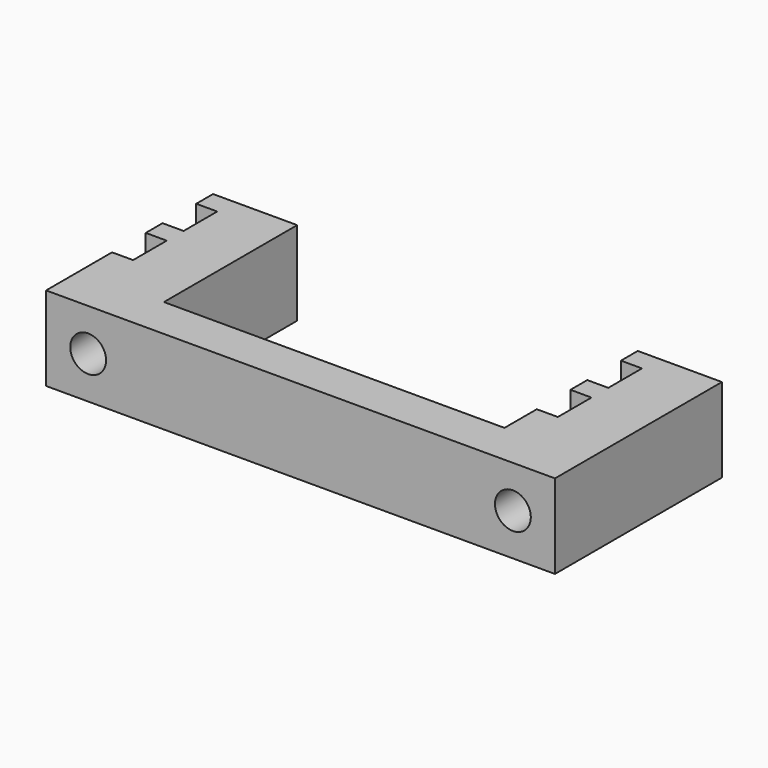
from build123d import *

# Parameters (mm, degrees)
F1_DEPTH = 6.35
F2_R     = 1.35255
F3_DEPTH = 4.7625


with BuildPart() as f1:
    # F0 (on Top) → F1 (new body)
    with BuildSketch(Plane.XY):
        Polygon((0, 1.5875), (0, 0), (1.5875, 0), (1.5875, -3.175), (0, -3.175), (0, -4.7625), (1.5875, -4.7625), (1.5875, -7.9375), (0, -7.9375), (0, -10.9855), (-25.69911, -10.9855), (-25.69911, 1.5875), (-32.04911, 1.5875), (-32.04911, 0), (-30.46161, 0), (-30.46161, -3.175), (-32.04911, -3.175), (-32.04911, -4.7625), (-30.46161, -4.7625), (-30.46161, -7.9375), (-32.04911, -7.9375), (-32.04911, -14.1605), (6.35, -14.1605), (6.35, 1.5875), align=None)
    extrude(amount=F1_DEPTH)

    # F2 (on face) → F3 (cut)
    with BuildSketch(Plane.XZ.offset(14.1605)):
        with Locations((-28.87411, 3.175)):
            Circle(F2_R)
        with Locations((3.175, 3.175)):
            Circle(F2_R)
    extrude(amount=-F3_DEPTH, mode=Mode.SUBTRACT)


solid = f1.part
